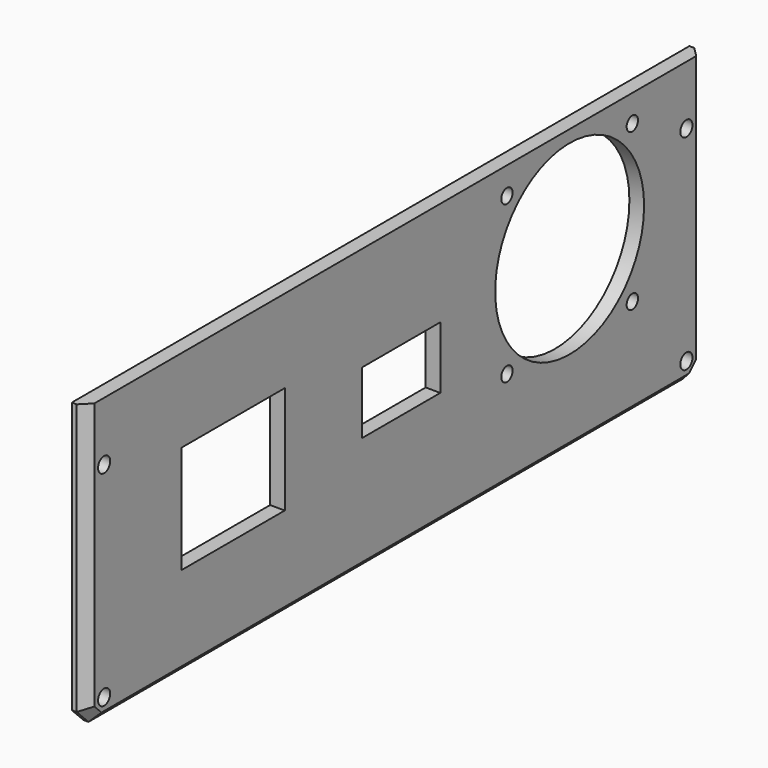
from build123d import *

# Parameters (mm, degrees)
SKETCH012_R     = 1.55
PAD006_DEPTH    = 3
SKETCH013_R     = 1.45
SKETCH013_W     = 26.3
SKETCH013_H     = 22
SKETCH013_W_2   = 20
SKETCH013_H_2   = 12.7
POCKET006_DEPTH = 5
SKETCH014_R     = 19
POCKET007_DEPTH = 5
CHAMFER004_SIZE = 2


with BuildPart() as part:
    # Sketch012 (on ShapeBinder) → Pad006 (new body)
    with BuildSketch(Plane.YZ.offset(280)):
        Polygon((-6.3, -9.3), (-3.3, -12.3), (148.3, -12.3), (151.3, -9.3), (151.3, 46), (-6.3, 46), align=None)
        with Locations((-1.8, 34)):
            Circle(SKETCH012_R, mode=Mode.SUBTRACT)
        with Locations((-1.8, -7.8)):
            Circle(SKETCH012_R, mode=Mode.SUBTRACT)
        with Locations((146.8, -7.8)):
            Circle(SKETCH012_R, mode=Mode.SUBTRACT)
        with Locations((146.8, 34)):
            Circle(SKETCH012_R, mode=Mode.SUBTRACT)
    extrude(amount=PAD006_DEPTH)

    # Sketch013 (on ShapeBinder) → Pocket006 (cut)
    with BuildSketch(Plane.YZ.offset(280)):
        with Locations((101, 40.5)):
            Circle(SKETCH013_R)
        with Locations((133, 40.5)):
            Circle(SKETCH013_R)
        with Locations((101, 8.5)):
            Circle(SKETCH013_R)
        with Locations((133, 8.5)):
            Circle(SKETCH013_R)
        with Locations((31.15, 18)):
            Rectangle(SKETCH013_W, SKETCH013_H)
        with Locations((74, 18.35)):
            Rectangle(SKETCH013_W_2, SKETCH013_H_2)
    extrude(amount=POCKET006_DEPTH, mode=Mode.SUBTRACT)

    # Sketch014 (on Face5 of Pocket006) → Pocket007 (cut)
    with BuildSketch(Plane.YZ.offset(283)):
        with Locations((117, 24.5)):
            Circle(SKETCH014_R)
    extrude(amount=-POCKET007_DEPTH, mode=Mode.SUBTRACT)

    # Chamfer004
    chamfer004_edges = [part.edges().sort_by_distance(p)[0] for p in [
        (283, -6.3, 18.35),
        (283, -4.8, -10.8),
        (283, 72.5, -12.3),
        (283, 149.8, -10.8),
        (283, 151.3, 18.35),
    ]]
    chamfer(chamfer004_edges, length=CHAMFER004_SIZE)


solid = part.part
